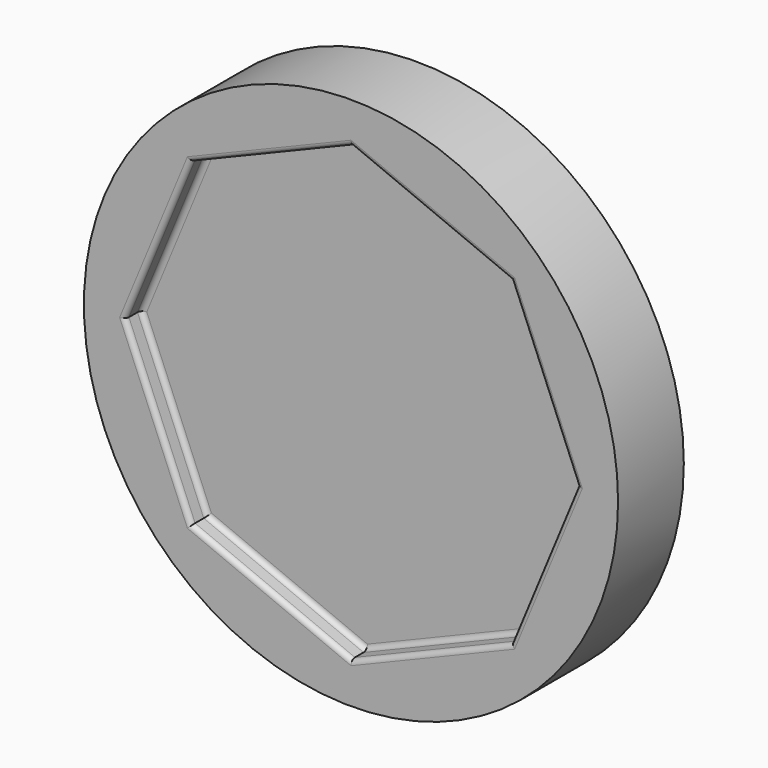
from build123d import *

# Parameters (mm, degrees)
F0_R     = 82.55
F1_DEPTH = 25.4
F3_DEPTH = 6.35
F4_R     = 1.524


with BuildPart() as f1:
    # F0 (on Front) → F1 (new body)
    with BuildSketch(Plane.XZ):
        Circle(F0_R)
    extrude(amount=F1_DEPTH)

    # F2 (on face) → F3 (cut)
    with BuildSketch(Plane.XZ.offset(25.4)):
        Polygon((49.391409, -49.391409), (69.85, 0), (49.391409, 49.391409), (0, 69.85), (-49.391409, 49.391409), (-69.85, 0), (-49.391409, -49.391409), (0, -69.85), align=None)
    extrude(amount=-F3_DEPTH, mode=Mode.SUBTRACT)

    # F4
    f4_edges = [f1.edges().sort_by_distance(p)[0] for p in [
        (59.620704, -19.05, -24.695704),
        (59.620704, -19.05, 24.695704),
        (24.695704, -19.05, 59.620704),
        (-24.695704, -19.05, 59.620704),
        (-59.620704, -19.05, 24.695704),
        (-59.620704, -19.05, -24.695704),
        (-24.695704, -19.05, -59.620704),
        (24.695704, -19.05, -59.620704),
        (-59.620704, -25.4, 24.695704),
        (-24.695704, -25.4, 59.620704),
        (24.695704, -25.4, 59.620704),
        (59.620704, -25.4, 24.695704),
        (59.620704, -25.4, -24.695704),
        (24.695704, -25.4, -59.620704),
        (-24.695704, -25.4, -59.620704),
        (-59.620704, -25.4, -24.695704),
    ]]
    fillet(f4_edges, radius=F4_R)


solid = f1.part
